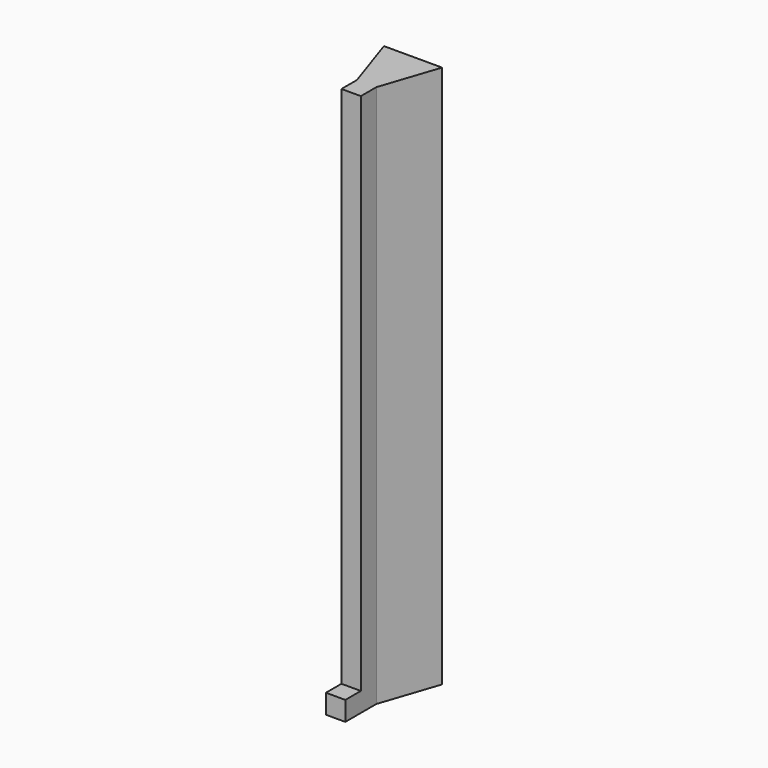
from build123d import *

# Parameters (mm, degrees)
F0_W     = 6.35
F0_H     = 6.35
F1_DEPTH = 177.8
F2_DEPTH = 6.35


with BuildPart() as f1:
    # F0 (on Top) → F1 (new body)
    with BuildSketch(Plane.XY):
        Polygon((9.525, -42.8625), (-9.525, -42.8625), (-3.175, -61.831036), (3.175, -61.831036), align=None)
        with Locations((0, -65.006036)):
            Rectangle(F0_W, F0_H)
    extrude(amount=F1_DEPTH)

    # F0 (on Top) → F2 (join)
    with BuildSketch(Plane.XY):
        with Locations((0, -71.356036)):
            Rectangle(F0_W, F0_H)
    extrude(amount=F2_DEPTH)


solid = f1.part
